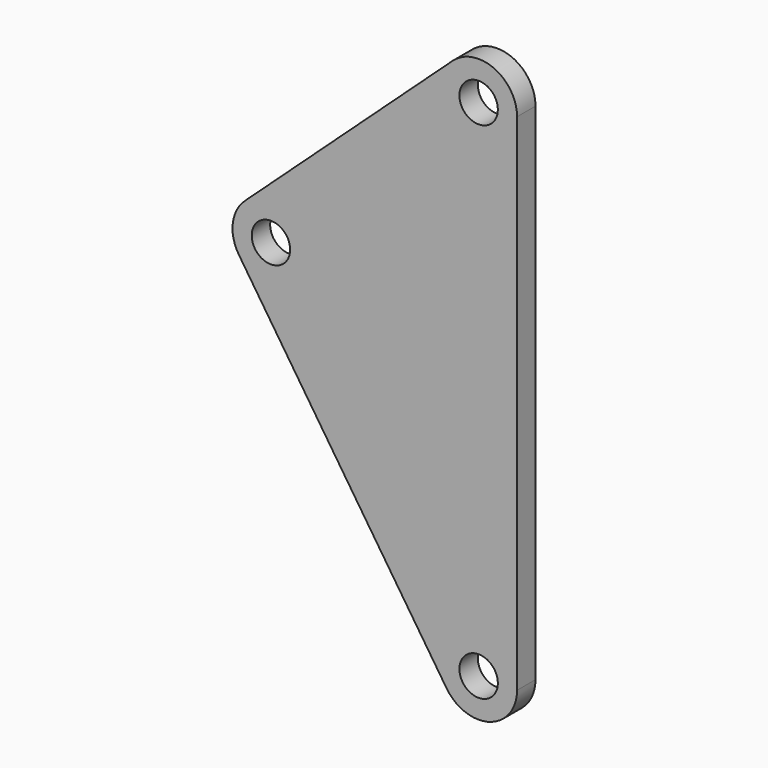
from build123d import *

# Parameters (mm, degrees)
F0_R     = 2.5
F1_DEPTH = 3


with BuildPart() as f1:
    # F0 (on Front) → F1 (new body)
    with BuildSketch(Plane.XZ):
        with BuildLine():
            ThreePointArc((-4.170627, -2.757874), (1.439942, -4.78817), (5, 0))
            Line((5, 0), (5, 65.7))
            ThreePointArc((5, 65.7), (2.010882, 70.277811), (-3.382541, 69.382175))
            Line((-3.382541, 69.382175), (-30.409707, 44.554321))
            ThreePointArc((-30.409707, 44.554321), (-31.990143, 41.479479), (-31.197793, 38.114272))
            Line((-31.197793, 38.114272), (-4.170627, -2.757874))
        make_face()
        Circle(F0_R, mode=Mode.SUBTRACT)
        with Locations((-27.027165, 40.872146)):
            Circle(F0_R, mode=Mode.SUBTRACT)
        with Locations((0, 65.7)):
            Circle(F0_R, mode=Mode.SUBTRACT)
    extrude(amount=F1_DEPTH)


solid = f1.part
